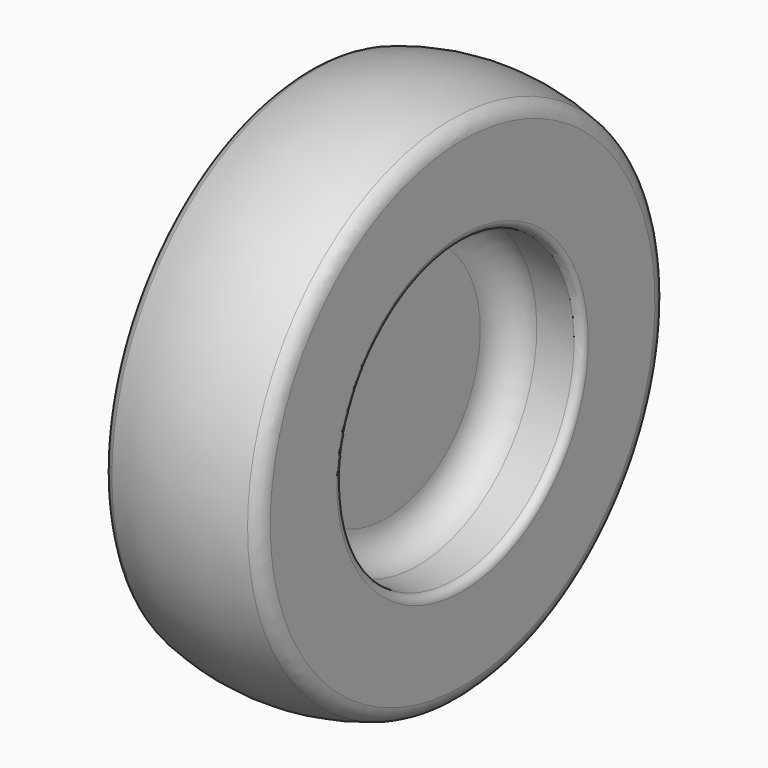
from build123d import *

# Parameters (mm, degrees)
F3_R = 12.7


with BuildPart() as f2:
    # F1 (on Front) → F2 (revolve)
    with BuildSketch(Plane.XZ):
        with BuildLine():
            ThreePointArc((63.5, 203.2), (0, 215.258916), (-63.5, 203.2))
            Line((-63.5, 203.2), (-63.5, 127))
            Line((-63.5, 127), (63.5, 127))
            Line((63.5, 127), (63.5, 203.2))
        make_face()
    revolve(axis=Axis((-24.373954, 0, 0), (-1, 0, 0)))

    # F3
    f3_edges = [f2.edges().sort_by_distance(p)[0] for p in [
        (63.5, 0, -203.2),
        (-63.5, 0, -203.2),
    ]]
    fillet(f3_edges, radius=F3_R)


with BuildPart() as f5:
    # F4 (on Front) → F5 (revolve)
    with BuildSketch(Plane.XZ):
        with BuildLine():
            ThreePointArc((-63.5, 127), (-61.640128, 122.509872), (-57.15, 120.65))
            Line((-57.15, 120.65), (-26.9875, 120.65))
            ThreePointArc((-26.9875, 120.65), (-9.026988, 113.210512), (-1.5875, 95.25))
            Line((-1.5875, 95.25), (-1.5875, 0))
            Line((-1.5875, 0), (1.5875, 0))
            Line((1.5875, 0), (1.5875, 95.25))
            ThreePointArc((1.5875, 95.25), (9.026988, 113.210512), (26.9875, 120.65))
            Line((26.9875, 120.65), (57.15, 120.65))
            ThreePointArc((57.15, 120.65), (61.640128, 122.509872), (63.5, 127))
            Line((63.5, 127), (-63.5, 127))
        make_face()
    revolve(axis=Axis((-24.373954, 0, 0), (-1, 0, 0)))


solid = Compound([f2.part, f5.part])
